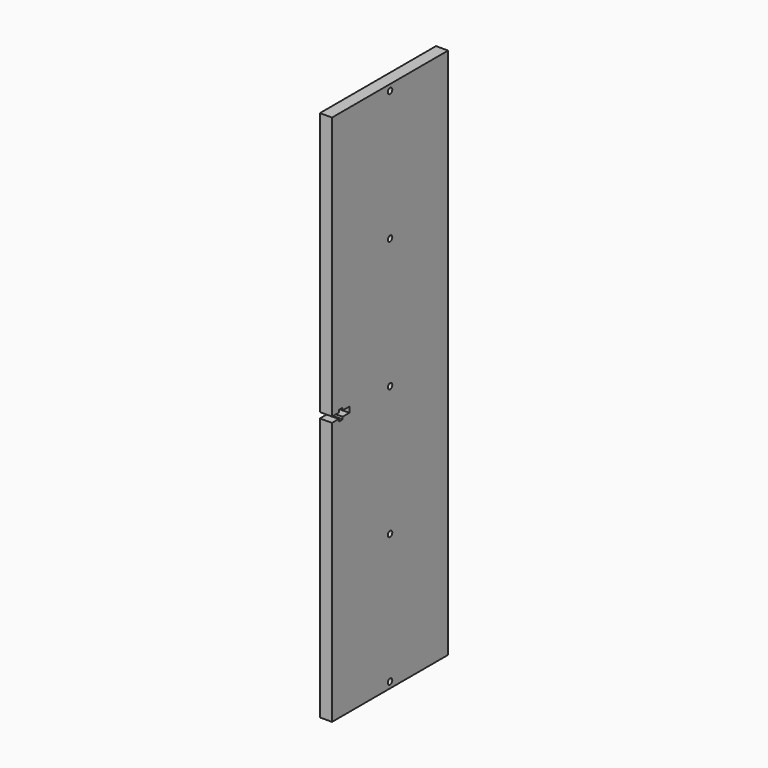
from build123d import *

# Parameters (mm, degrees)
F0_R     = 1.4605
F1_DEPTH = 6.35


with BuildPart() as f1:
    # F0 (on Right) → F1 (new body)
    with BuildSketch(Plane.YZ):
        Polygon((38.1, 139.7), (-38.1, 139.7), (-38.1, 1.4605), (-33.655, 1.4605), (-33.655, 2.7305), (-31.115, 2.7305), (-31.115, 1.4605), (-26.67, 1.4605), (-26.67, -1.4605), (-31.115, -1.4605), (-31.115, -2.7305), (-33.655, -2.7305), (-33.655, -1.4605), (-38.1, -1.4605), (-38.1, -139.7), (38.1, -139.7), align=None)
        with Locations((0, -136.525)):
            Circle(F0_R, mode=Mode.SUBTRACT)
        with Locations((0, -68.2625)):
            Circle(F0_R, mode=Mode.SUBTRACT)
        Circle(F0_R, mode=Mode.SUBTRACT)
        with Locations((0, 68.2625)):
            Circle(F0_R, mode=Mode.SUBTRACT)
        with Locations((0, 136.525)):
            Circle(F0_R, mode=Mode.SUBTRACT)
    extrude(amount=F1_DEPTH)


solid = f1.part
